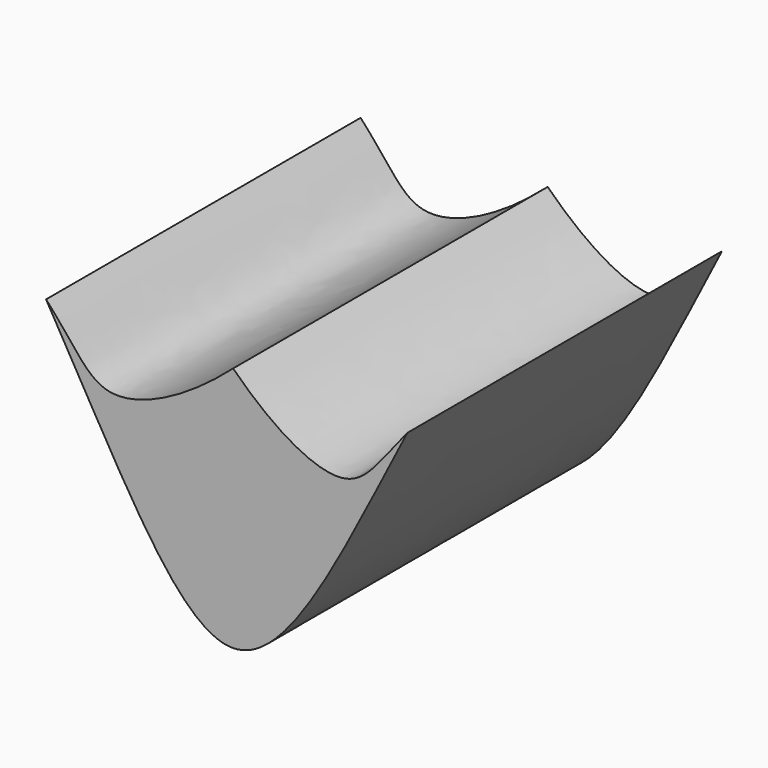
from build123d import *

# Parameters (mm, degrees)
F1_DEPTH = 33.02


with BuildPart() as f1:
    # F0 (on Front) → F1 (new body)
    with BuildSketch(Plane.XZ):
        with BuildLine():
            add(Edge.make_bspline(
                [(0, 14.3642118201), (3.3617344069, 11.0315466623), (9.9345152535, 7.1732408891), (12.2719827381, 11.5218223378), (14.6327000111, 14.3642118201)],
                knots=[0, 0, 0, 0, 0.5443942563, 1, 1, 1, 1], degree=3))
            add(Edge.make_bspline(
                [(0, 14.3642118201), (-3.7932946129, 11.004924248), (-11.1611127569, 7.0588765271), (-13.2199534797, 11.6770168661), (-15.7066620886, 14.3642118201)],
                knots=[0, 0, 0, 0, 0.5550664865, 1, 1, 1, 1], degree=3))
            add(Edge.make_bspline(
                [(-15.7066620886, 14.3642118201), (-9.3794230665, 3.5609797898), (0.0483893916, -16.1765990524), (9.0543467297, 3.5527527458), (14.6327000111, 14.3642118201)],
                knots=[0, 0, 0, 0, 0.5030964059, 1, 1, 1, 1], degree=3))
        make_face()
    extrude(amount=F1_DEPTH)


solid = f1.part
